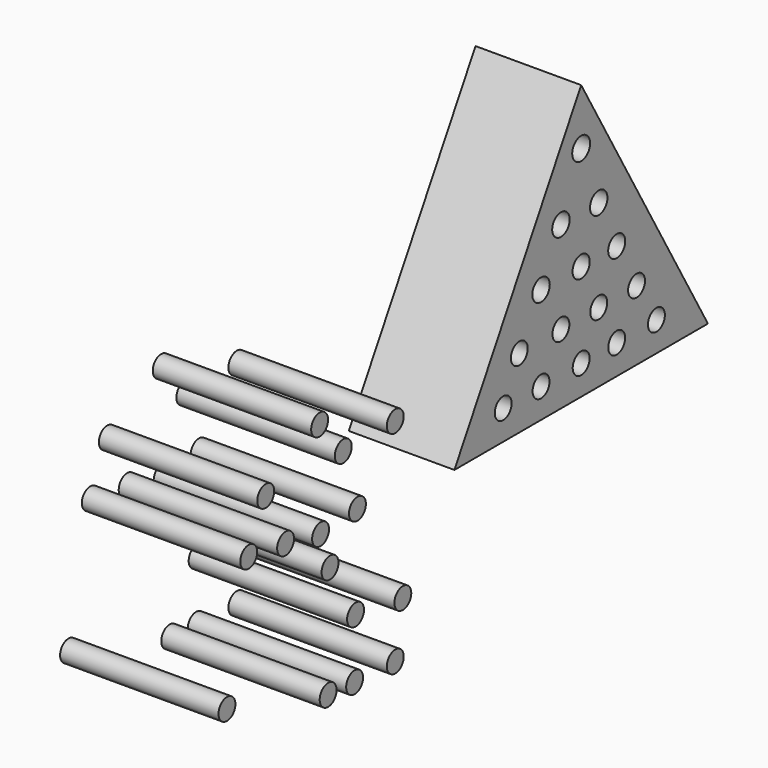
from build123d import *

# Parameters (mm, degrees)
F1_DEPTH = 25.4
F2_R     = 2.54
F2_R_2   = 2.620552
F2_R_3   = 2.582524
F2_R_4   = 2.558228
F2_R_5   = 2.620627
F2_R_6   = 2.620624
F2_R_7   = 2.6924
F3_DEPTH = 12.7
F4_R     = 2.54
F5_DEPTH = 38.1


with BuildPart() as f1:
    # F0 (on Right) → F1 (new body)
    with BuildSketch(Plane.YZ):
        Polygon((-38.1, 65.991136), (-76.2, 0), (0, 0), align=None)
    extrude(amount=F1_DEPTH)

    # F2 (on face) → F3 (cut)
    with BuildSketch(Plane.YZ.offset(25.4)):
        with Locations((-61.535221, 7.105684)):
            Circle(F2_R)
        with Locations((-50.156035, 7.105684)):
            Circle(F2_R)
        with Locations((-38.1, 7.105684)):
            Circle(F2_R)
        with Locations((-27.416233, 7.105684)):
            Circle(F2_R)
        with Locations((-15.477836, 7.105684)):
            Circle(F2_R)
        with Locations((-56.693733, 16.769415)):
            Circle(F2_R)
        with Locations((-44.186838, 16.769415)):
            Circle(F2_R)
        with Locations((-32.816935, 16.769415)):
            Circle(F2_R)
        with Locations((-21.447035, 16.769415)):
            Circle(F2_R)
        with Locations((-50.156035, 27.570054)):
            Circle(F2_R_2)
        with Locations((-38.1, 27.570054)):
            Circle(F2_R_3)
        with Locations((-27.416233, 27.570054)):
            Circle(F2_R_4)
        with Locations((-44.186838, 38.939148)):
            Circle(F2_R_5)
        with Locations((-32.816935, 38.939148)):
            Circle(F2_R_6)
        with Locations((-38.1, 52.582059)):
            Circle(F2_R_7)
    extrude(amount=-F3_DEPTH, mode=Mode.SUBTRACT)


with BuildPart() as f5:
    # F4 (on Right) → F5 (new body)
    with BuildSketch(Plane.YZ):
        with Locations((-130.034015, -21.60128)):
            Circle(F4_R)
        with Locations((-122.075647, -22.169733)):
            Circle(F4_R)
        with Locations((-109.853871, -22.738187)):
            Circle(F4_R)
        with Locations((-121.791422, -7.958367)):
            Circle(F4_R)
        with Locations((-160.446346, -12.221777)):
            Circle(F4_R)
        with Locations((-107.580051, -10.232185)):
            Circle(F4_R)
        with Locations((-129.465565, 5.116093)):
            Circle(F4_R)
        with Locations((-153.909117, 17.33787)):
            Circle(F4_R)
        with Locations((-142.824247, 15.632505)):
            Circle(F4_R)
        with Locations((-132.307842, 13.358685)):
            Circle(F4_R)
        with Locations((-121.222973, 14.211368)):
            Circle(F4_R)
        with Locations((-148.793027, 28.138509)):
            Circle(F4_R)
        with Locations((-132.592067, 36.665328)):
            Circle(F4_R)
        with Locations((-125.486374, 28.138509)):
            Circle(F4_R)
        with Locations((-109.853871, 28.138509)):
            Circle(F4_R)
    extrude(amount=F5_DEPTH)


solid = Compound([f1.part, f5.part])
